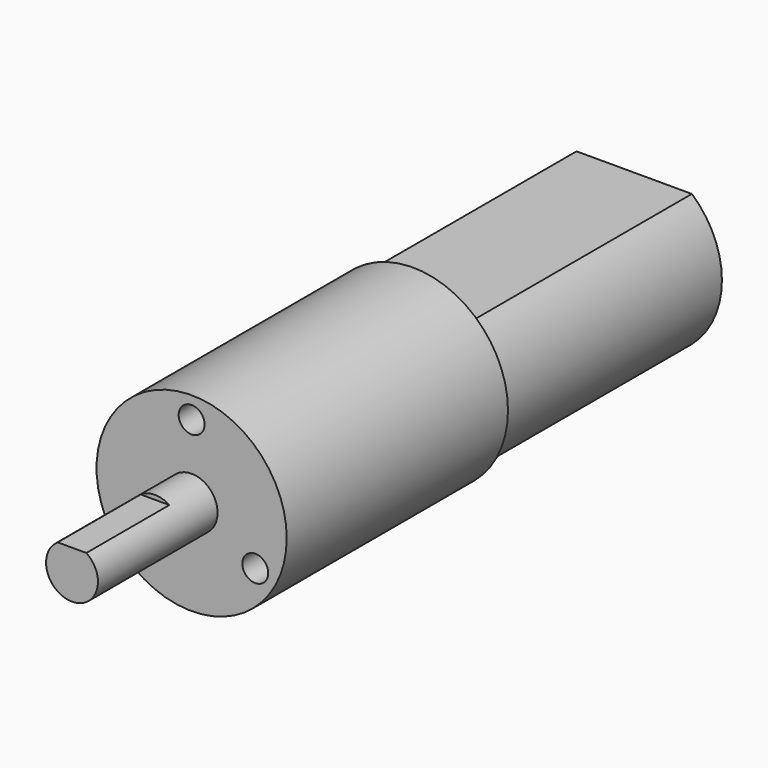
from build123d import *

# Parameters (mm, degrees)
F0_R     = 11
F1_DEPTH = 32
F2_R     = 1.5
F3_DEPTH = 5
F5_DEPTH = 32
F6_R     = 3
F7_DEPTH = 17.3
F9_DEPTH = 12


with BuildPart() as f1:
    # F0 (on Front) → F1 (new body)
    with BuildSketch(Plane.XZ):
        Circle(F0_R)
    extrude(amount=F1_DEPTH)

    # F2 (on face) → F3 (cut)
    with BuildSketch(Plane.XZ.offset(32)):
        with Locations((0, 8.5)):
            Circle(F2_R)
        with Locations((-7.361216, -4.25)):
            Circle(F2_R)
        with Locations((7.361216, -4.25)):
            Circle(F2_R)
    extrude(amount=-F3_DEPTH, mode=Mode.SUBTRACT)

    # F4 (on face) → F5 (join)
    with BuildSketch(Plane(origin=(0, 0, 0), x_dir=(-1, 0, 0), z_dir=(0, 1, 0))):
        with BuildLine():
            Line((6.670832, 7.65), (-6.670832, 7.65))
            ThreePointArc((-6.670832, 7.65), (-10.15, 0), (-6.670832, -7.65))
            Line((-6.670832, -7.65), (6.670832, -7.65))
            ThreePointArc((6.670832, -7.65), (10.15, 0), (6.670832, 7.65))
        make_face()
    extrude(amount=F5_DEPTH)

    # F6 (on face) → F7 (join)
    with BuildSketch(Plane.XZ.offset(32)):
        Circle(F6_R)
    extrude(amount=F7_DEPTH)

    # F8 (on face) → F9 (cut)
    with BuildSketch(Plane.XZ.offset(49.3)):
        with BuildLine():
            ThreePointArc((1.658312, 2.5), (0, 3), (-1.658312, 2.5))
            Line((-1.658312, 2.5), (1.658312, 2.5))
        make_face()
    extrude(amount=-F9_DEPTH, mode=Mode.SUBTRACT)


solid = f1.part
